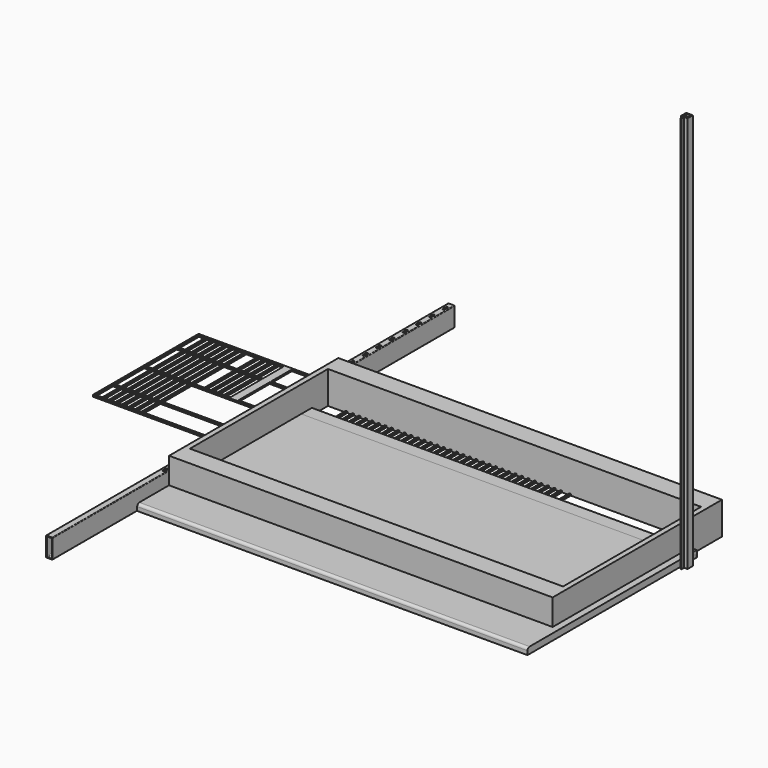
from build123d import *

# Parameters (mm, degrees)
F1_DEPTH  = 4.672
F2_DEPTH  = 6.35
F3_DEPTH  = 4
F4_W      = 25
F4_H      = 1930.4
F5_DEPTH  = 75
F7_DEPTH  = 2133.6
F8_R      = 2
F9_W      = 1473.2
F9_H      = 812.8
F9_W_2    = 1433.2
F9_H_2    = 662.8
F10_DEPTH = 125
F11_W     = 1521.46
F11_H     = 508
F11_W_2   = 26
F11_H_2   = 84
F11_W_3   = 19
F11_H_3   = 144
F11_W_4   = 27.46
F11_H_4   = 150
F11_H_5   = 100
F12_DEPTH = 6
F13_W     = 1524
F13_H     = 6.35
F13_H_2   = 44.45
F14_DEPTH = 25
F15_DEPTH = 12.7
F16_DEPTH = 12.7
F13_H_3   = 304.8
F17_DEPTH = 25
F18_R     = 10
F18_2_R   = 10
F19_DEPTH = 1524
F20_DEPTH = 1524


with BuildPart() as f1:
    # F0 (on Top) → F1 (new body)
    with BuildSketch(Plane.XY):
        with BuildLine():
            Line((211.6213, 8.013526), (-248.3787, 8.013526))
            Line((-248.3787, 8.013526), (-248.3787, 16.013526))
            ThreePointArc((-248.3787, 16.013526), (-248.964486, 17.427739), (-250.3787, 18.013526))
            Line((-250.3787, 18.013526), (-252.3787, 18.013526))
            ThreePointArc((-252.3787, 18.013526), (-253.792913, 17.427739), (-254.3787, 16.013526))
            Line((-254.3787, 16.013526), (-254.3787, 8.013526))
            Line((-254.3787, 8.013526), (-254.3787, -19.986474))
            ThreePointArc((-254.3787, -19.986474), (-253.792913, -21.400688), (-252.3787, -21.986474))
            Line((-252.3787, -21.986474), (-250.3787, -21.986474))
            ThreePointArc((-250.3787, -21.986474), (-248.964486, -21.400688), (-248.3787, -19.986474))
            Line((-248.3787, -19.986474), (-248.3787, -11.986474))
            Line((-248.3787, -11.986474), (211.6213, -69.711964))
            Line((211.6213, -69.711964), (211.6213, 8.013526))
        make_face()
        with BuildLine():
            Line((259.93453, -75.774801), (211.6213, -69.711964))
            Line((211.6213, -69.711964), (211.6213, -137.774662))
            Line((211.6213, -137.774662), (233.652189, -143.248732))
            ThreePointArc((233.652189, -143.248732), (236.643955, -143.801353), (239.680693, -143.986474))
            Line((239.680693, -143.986474), (258.6213, -143.986474))
            ThreePointArc((258.6213, -143.986474), (260.742621, -143.107795), (261.6213, -140.986474))
            Line((261.6213, -140.986474), (261.6213, -129.986474))
            Line((261.6213, -129.986474), (264.3213, -129.986474))
            Line((264.3213, -129.986474), (264.3213, -136.986474))
            ThreePointArc((264.3213, -136.986474), (265.19998, -139.107795), (267.3213, -139.986474))
            Line((267.3213, -139.986474), (271.3213, -139.986474))
            ThreePointArc((271.3213, -139.986474), (273.442621, -139.107795), (274.3213, -136.986474))
            Line((274.3213, -136.986474), (274.3213, -122.986474))
            ThreePointArc((274.3213, -122.986474), (273.442621, -120.865154), (271.3213, -119.986474))
            Line((271.3213, -119.986474), (261.6213, -119.986474))
            Line((261.6213, -119.986474), (261.6213, -74.286474))
            ThreePointArc((261.6213, -74.286474), (261.113733, -75.411231), (259.93453, -75.774801))
        make_face()
        with BuildLine():
            Line((260.1213, 8.013526), (211.6213, 8.013526))
            Line((211.6213, 8.013526), (211.6213, -69.711964))
            Line((211.6213, -69.711964), (259.93453, -75.774801))
            ThreePointArc((259.93453, -75.774801), (261.113733, -75.411231), (261.6213, -74.286474))
            Line((261.6213, -74.286474), (261.6213, -69.986474))
            Line((261.6213, -69.986474), (263.9213, -69.986474))
            Line((263.9213, -69.986474), (264.3213, -74.486474))
            ThreePointArc((264.3213, -74.486474), (264.76064, -75.547134), (265.8213, -75.986474))
            Line((265.8213, -75.986474), (272.8213, -75.986474))
            ThreePointArc((272.8213, -75.986474), (273.88196, -75.547134), (274.3213, -74.486474))
            Line((274.3213, -74.486474), (274.3213, -57.486474))
            ThreePointArc((274.3213, -57.486474), (273.88196, -56.425814), (272.8213, -55.986474))
            Line((272.8213, -55.986474), (265.8213, -55.986474))
            ThreePointArc((265.8213, -55.986474), (264.76064, -56.425814), (264.3213, -57.486474))
            Line((264.3213, -57.486474), (263.9213, -61.986474))
            Line((263.9213, -61.986474), (261.6213, -61.986474))
            Line((261.6213, -61.986474), (261.6213, -57.486474))
            ThreePointArc((261.6213, -57.486474), (261.18196, -56.425814), (260.1213, -55.986474))
            Line((260.1213, -55.986474), (258.6213, -55.986474))
            Line((258.6213, -55.986474), (258.6213, -50.986474))
            Line((258.6213, -50.986474), (261.6213, -50.986474))
            Line((261.6213, -50.986474), (271.3213, -50.986474))
            ThreePointArc((271.3213, -50.986474), (273.442621, -50.107795), (274.3213, -47.986474))
            Line((274.3213, -47.986474), (274.3213, -38.986474))
            ThreePointArc((274.3213, -38.986474), (273.442621, -36.865154), (271.3213, -35.986474))
            Line((271.3213, -35.986474), (261.6213, -35.986474))
            Line((261.6213, -35.986474), (258.6213, -35.986474))
            Line((258.6213, -35.986474), (258.6213, -31.986474))
            Line((258.6213, -31.986474), (261.6213, -31.986474))
            Line((261.6213, -31.986474), (271.3213, -31.986474))
            ThreePointArc((271.3213, -31.986474), (273.442621, -31.107795), (274.3213, -28.986474))
            Line((274.3213, -28.986474), (274.3213, -19.986474))
            ThreePointArc((274.3213, -19.986474), (273.442621, -17.865154), (271.3213, -16.986474))
            Line((271.3213, -16.986474), (261.6213, -16.986474))
            Line((261.6213, -16.986474), (258.6213, -16.986474))
            Line((258.6213, -16.986474), (258.6213, -11.986474))
            Line((258.6213, -11.986474), (260.1213, -11.986474))
            ThreePointArc((260.1213, -11.986474), (261.18196, -11.547134), (261.6213, -10.486474))
            Line((261.6213, -10.486474), (261.6213, -5.986474))
            Line((261.6213, -5.986474), (263.9213, -5.986474))
            Line((263.9213, -5.986474), (264.3213, -10.486474))
            ThreePointArc((264.3213, -10.486474), (264.76064, -11.547134), (265.8213, -11.986474))
            Line((265.8213, -11.986474), (272.8213, -11.986474))
            ThreePointArc((272.8213, -11.986474), (273.88196, -11.547134), (274.3213, -10.486474))
            Line((274.3213, -10.486474), (274.3213, 6.513526))
            ThreePointArc((274.3213, 6.513526), (273.88196, 7.574186), (272.8213, 8.013526))
            Line((272.8213, 8.013526), (265.8213, 8.013526))
            ThreePointArc((265.8213, 8.013526), (264.76064, 7.574186), (264.3213, 6.513526))
            Line((264.3213, 6.513526), (263.9213, 2.013526))
            Line((263.9213, 2.013526), (261.6213, 2.013526))
            Line((261.6213, 2.013526), (261.6213, 6.513526))
            ThreePointArc((261.6213, 6.513526), (261.18196, 7.574186), (260.1213, 8.013526))
        make_face()
        with BuildLine():
            Line((259.93453, -75.774801), (211.6213, -69.711964))
            Line((211.6213, -69.711964), (211.6213, -137.774662))
            Line((211.6213, -137.774662), (233.652189, -143.248732))
            ThreePointArc((233.652189, -143.248732), (236.643955, -143.801353), (239.680693, -143.986474))
            Line((239.680693, -143.986474), (258.6213, -143.986474))
            ThreePointArc((258.6213, -143.986474), (260.742621, -143.107795), (261.6213, -140.986474))
            Line((261.6213, -140.986474), (261.6213, -129.986474))
            Line((261.6213, -129.986474), (264.3213, -129.986474))
            Line((264.3213, -129.986474), (264.3213, -136.986474))
            ThreePointArc((264.3213, -136.986474), (265.19998, -139.107795), (267.3213, -139.986474))
            Line((267.3213, -139.986474), (271.3213, -139.986474))
            ThreePointArc((271.3213, -139.986474), (273.442621, -139.107795), (274.3213, -136.986474))
            Line((274.3213, -136.986474), (274.3213, -122.986474))
            ThreePointArc((274.3213, -122.986474), (273.442621, -120.865154), (271.3213, -119.986474))
            Line((271.3213, -119.986474), (261.6213, -119.986474))
            Line((261.6213, -119.986474), (261.6213, -74.286474))
            ThreePointArc((261.6213, -74.286474), (261.113733, -75.411231), (259.93453, -75.774801))
        make_face()
    extrude(amount=F1_DEPTH)


with BuildPart() as f2:
    # F0 (on Top) → F2 (new body)
    with BuildSketch(Plane.XY):
        with BuildLine():
            Line((259.93453, -75.774801), (211.6213, -69.711964))
            Line((211.6213, -69.711964), (211.6213, -137.774662))
            Line((211.6213, -137.774662), (233.652189, -143.248732))
            ThreePointArc((233.652189, -143.248732), (236.643955, -143.801353), (239.680693, -143.986474))
            Line((239.680693, -143.986474), (258.6213, -143.986474))
            ThreePointArc((258.6213, -143.986474), (260.742621, -143.107795), (261.6213, -140.986474))
            Line((261.6213, -140.986474), (261.6213, -129.986474))
            Line((261.6213, -129.986474), (264.3213, -129.986474))
            Line((264.3213, -129.986474), (264.3213, -136.986474))
            ThreePointArc((264.3213, -136.986474), (265.19998, -139.107795), (267.3213, -139.986474))
            Line((267.3213, -139.986474), (271.3213, -139.986474))
            ThreePointArc((271.3213, -139.986474), (273.442621, -139.107795), (274.3213, -136.986474))
            Line((274.3213, -136.986474), (274.3213, -122.986474))
            ThreePointArc((274.3213, -122.986474), (273.442621, -120.865154), (271.3213, -119.986474))
            Line((271.3213, -119.986474), (261.6213, -119.986474))
            Line((261.6213, -119.986474), (261.6213, -74.286474))
            ThreePointArc((261.6213, -74.286474), (261.113733, -75.411231), (259.93453, -75.774801))
        make_face()
        with BuildLine():
            Line((260.1213, 8.013526), (211.6213, 8.013526))
            Line((211.6213, 8.013526), (211.6213, -69.711964))
            Line((211.6213, -69.711964), (259.93453, -75.774801))
            ThreePointArc((259.93453, -75.774801), (261.113733, -75.411231), (261.6213, -74.286474))
            Line((261.6213, -74.286474), (261.6213, -69.986474))
            Line((261.6213, -69.986474), (263.9213, -69.986474))
            Line((263.9213, -69.986474), (264.3213, -74.486474))
            ThreePointArc((264.3213, -74.486474), (264.76064, -75.547134), (265.8213, -75.986474))
            Line((265.8213, -75.986474), (272.8213, -75.986474))
            ThreePointArc((272.8213, -75.986474), (273.88196, -75.547134), (274.3213, -74.486474))
            Line((274.3213, -74.486474), (274.3213, -57.486474))
            ThreePointArc((274.3213, -57.486474), (273.88196, -56.425814), (272.8213, -55.986474))
            Line((272.8213, -55.986474), (265.8213, -55.986474))
            ThreePointArc((265.8213, -55.986474), (264.76064, -56.425814), (264.3213, -57.486474))
            Line((264.3213, -57.486474), (263.9213, -61.986474))
            Line((263.9213, -61.986474), (261.6213, -61.986474))
            Line((261.6213, -61.986474), (261.6213, -57.486474))
            ThreePointArc((261.6213, -57.486474), (261.18196, -56.425814), (260.1213, -55.986474))
            Line((260.1213, -55.986474), (258.6213, -55.986474))
            Line((258.6213, -55.986474), (258.6213, -50.986474))
            Line((258.6213, -50.986474), (261.6213, -50.986474))
            Line((261.6213, -50.986474), (271.3213, -50.986474))
            ThreePointArc((271.3213, -50.986474), (273.442621, -50.107795), (274.3213, -47.986474))
            Line((274.3213, -47.986474), (274.3213, -38.986474))
            ThreePointArc((274.3213, -38.986474), (273.442621, -36.865154), (271.3213, -35.986474))
            Line((271.3213, -35.986474), (261.6213, -35.986474))
            Line((261.6213, -35.986474), (258.6213, -35.986474))
            Line((258.6213, -35.986474), (258.6213, -31.986474))
            Line((258.6213, -31.986474), (261.6213, -31.986474))
            Line((261.6213, -31.986474), (271.3213, -31.986474))
            ThreePointArc((271.3213, -31.986474), (273.442621, -31.107795), (274.3213, -28.986474))
            Line((274.3213, -28.986474), (274.3213, -19.986474))
            ThreePointArc((274.3213, -19.986474), (273.442621, -17.865154), (271.3213, -16.986474))
            Line((271.3213, -16.986474), (261.6213, -16.986474))
            Line((261.6213, -16.986474), (258.6213, -16.986474))
            Line((258.6213, -16.986474), (258.6213, -11.986474))
            Line((258.6213, -11.986474), (260.1213, -11.986474))
            ThreePointArc((260.1213, -11.986474), (261.18196, -11.547134), (261.6213, -10.486474))
            Line((261.6213, -10.486474), (261.6213, -5.986474))
            Line((261.6213, -5.986474), (263.9213, -5.986474))
            Line((263.9213, -5.986474), (264.3213, -10.486474))
            ThreePointArc((264.3213, -10.486474), (264.76064, -11.547134), (265.8213, -11.986474))
            Line((265.8213, -11.986474), (272.8213, -11.986474))
            ThreePointArc((272.8213, -11.986474), (273.88196, -11.547134), (274.3213, -10.486474))
            Line((274.3213, -10.486474), (274.3213, 6.513526))
            ThreePointArc((274.3213, 6.513526), (273.88196, 7.574186), (272.8213, 8.013526))
            Line((272.8213, 8.013526), (265.8213, 8.013526))
            ThreePointArc((265.8213, 8.013526), (264.76064, 7.574186), (264.3213, 6.513526))
            Line((264.3213, 6.513526), (263.9213, 2.013526))
            Line((263.9213, 2.013526), (261.6213, 2.013526))
            Line((261.6213, 2.013526), (261.6213, 6.513526))
            ThreePointArc((261.6213, 6.513526), (261.18196, 7.574186), (260.1213, 8.013526))
        make_face()
    extrude(amount=F2_DEPTH)


with BuildPart() as f3:
    # F0 (on Top) → F3 (new body)
    with BuildSketch(Plane.XY):
        with BuildLine():
            Line((211.6213, 8.013526), (-248.3787, 8.013526))
            Line((-248.3787, 8.013526), (-248.3787, 16.013526))
            ThreePointArc((-248.3787, 16.013526), (-248.964486, 17.427739), (-250.3787, 18.013526))
            Line((-250.3787, 18.013526), (-252.3787, 18.013526))
            ThreePointArc((-252.3787, 18.013526), (-253.792913, 17.427739), (-254.3787, 16.013526))
            Line((-254.3787, 16.013526), (-254.3787, 8.013526))
            Line((-254.3787, 8.013526), (-254.3787, -19.986474))
            ThreePointArc((-254.3787, -19.986474), (-253.792913, -21.400688), (-252.3787, -21.986474))
            Line((-252.3787, -21.986474), (-250.3787, -21.986474))
            ThreePointArc((-250.3787, -21.986474), (-248.964486, -21.400688), (-248.3787, -19.986474))
            Line((-248.3787, -19.986474), (-248.3787, -11.986474))
            Line((-248.3787, -11.986474), (211.6213, -69.711964))
            Line((211.6213, -69.711964), (211.6213, 8.013526))
        make_face()
        with BuildLine():
            Line((260.1213, 8.013526), (211.6213, 8.013526))
            Line((211.6213, 8.013526), (211.6213, -69.711964))
            Line((211.6213, -69.711964), (259.93453, -75.774801))
            ThreePointArc((259.93453, -75.774801), (261.113733, -75.411231), (261.6213, -74.286474))
            Line((261.6213, -74.286474), (261.6213, -69.986474))
            Line((261.6213, -69.986474), (263.9213, -69.986474))
            Line((263.9213, -69.986474), (264.3213, -74.486474))
            ThreePointArc((264.3213, -74.486474), (264.76064, -75.547134), (265.8213, -75.986474))
            Line((265.8213, -75.986474), (272.8213, -75.986474))
            ThreePointArc((272.8213, -75.986474), (273.88196, -75.547134), (274.3213, -74.486474))
            Line((274.3213, -74.486474), (274.3213, -57.486474))
            ThreePointArc((274.3213, -57.486474), (273.88196, -56.425814), (272.8213, -55.986474))
            Line((272.8213, -55.986474), (265.8213, -55.986474))
            ThreePointArc((265.8213, -55.986474), (264.76064, -56.425814), (264.3213, -57.486474))
            Line((264.3213, -57.486474), (263.9213, -61.986474))
            Line((263.9213, -61.986474), (261.6213, -61.986474))
            Line((261.6213, -61.986474), (261.6213, -57.486474))
            ThreePointArc((261.6213, -57.486474), (261.18196, -56.425814), (260.1213, -55.986474))
            Line((260.1213, -55.986474), (258.6213, -55.986474))
            Line((258.6213, -55.986474), (258.6213, -50.986474))
            Line((258.6213, -50.986474), (261.6213, -50.986474))
            Line((261.6213, -50.986474), (271.3213, -50.986474))
            ThreePointArc((271.3213, -50.986474), (273.442621, -50.107795), (274.3213, -47.986474))
            Line((274.3213, -47.986474), (274.3213, -38.986474))
            ThreePointArc((274.3213, -38.986474), (273.442621, -36.865154), (271.3213, -35.986474))
            Line((271.3213, -35.986474), (261.6213, -35.986474))
            Line((261.6213, -35.986474), (258.6213, -35.986474))
            Line((258.6213, -35.986474), (258.6213, -31.986474))
            Line((258.6213, -31.986474), (261.6213, -31.986474))
            Line((261.6213, -31.986474), (271.3213, -31.986474))
            ThreePointArc((271.3213, -31.986474), (273.442621, -31.107795), (274.3213, -28.986474))
            Line((274.3213, -28.986474), (274.3213, -19.986474))
            ThreePointArc((274.3213, -19.986474), (273.442621, -17.865154), (271.3213, -16.986474))
            Line((271.3213, -16.986474), (261.6213, -16.986474))
            Line((261.6213, -16.986474), (258.6213, -16.986474))
            Line((258.6213, -16.986474), (258.6213, -11.986474))
            Line((258.6213, -11.986474), (260.1213, -11.986474))
            ThreePointArc((260.1213, -11.986474), (261.18196, -11.547134), (261.6213, -10.486474))
            Line((261.6213, -10.486474), (261.6213, -5.986474))
            Line((261.6213, -5.986474), (263.9213, -5.986474))
            Line((263.9213, -5.986474), (264.3213, -10.486474))
            ThreePointArc((264.3213, -10.486474), (264.76064, -11.547134), (265.8213, -11.986474))
            Line((265.8213, -11.986474), (272.8213, -11.986474))
            ThreePointArc((272.8213, -11.986474), (273.88196, -11.547134), (274.3213, -10.486474))
            Line((274.3213, -10.486474), (274.3213, 6.513526))
            ThreePointArc((274.3213, 6.513526), (273.88196, 7.574186), (272.8213, 8.013526))
            Line((272.8213, 8.013526), (265.8213, 8.013526))
            ThreePointArc((265.8213, 8.013526), (264.76064, 7.574186), (264.3213, 6.513526))
            Line((264.3213, 6.513526), (263.9213, 2.013526))
            Line((263.9213, 2.013526), (261.6213, 2.013526))
            Line((261.6213, 2.013526), (261.6213, 6.513526))
            ThreePointArc((261.6213, 6.513526), (261.18196, 7.574186), (260.1213, 8.013526))
        make_face()
    extrude(amount=F3_DEPTH)


with BuildPart() as f5:
    # F4 (on Top) → F5 (new body)
    with BuildSketch(Plane.XY):
        with Locations((-749.5, 0)):
            Rectangle(F4_W, F4_H)
        with BuildLine():
            ThreePointArc((-752, -401.8), (-751.12132, -399.67868), (-749, -398.8))
            Line((-749, -398.8), (-748, -398.8))
            ThreePointArc((-748, -398.8), (-745.87868, -399.67868), (-745, -401.8))
            Line((-745, -401.8), (-745, -417.8))
            ThreePointArc((-745, -417.8), (-745.87868, -419.92132), (-748, -420.8))
            Line((-748, -420.8), (-749, -420.8))
            ThreePointArc((-749, -420.8), (-751.12132, -419.92132), (-752, -417.8))
            Line((-752, -417.8), (-752, -401.8))
        make_face(mode=Mode.SUBTRACT)
        with BuildLine():
            ThreePointArc((-752, -337.8), (-751.12132, -335.67868), (-749, -334.8))
            Line((-749, -334.8), (-748, -334.8))
            ThreePointArc((-748, -334.8), (-745.87868, -335.67868), (-745, -337.8))
            Line((-745, -337.8), (-745, -353.8))
            ThreePointArc((-745, -353.8), (-745.87868, -355.92132), (-748, -356.8))
            Line((-748, -356.8), (-749, -356.8))
            ThreePointArc((-749, -356.8), (-751.12132, -355.92132), (-752, -353.8))
            Line((-752, -353.8), (-752, -337.8))
        make_face(mode=Mode.SUBTRACT)
        with BuildLine():
            ThreePointArc((-752, -273.8), (-751.12132, -271.67868), (-749, -270.8))
            Line((-749, -270.8), (-748, -270.8))
            ThreePointArc((-748, -270.8), (-745.87868, -271.67868), (-745, -273.8))
            Line((-745, -273.8), (-745, -289.8))
            ThreePointArc((-745, -289.8), (-745.87868, -291.92132), (-748, -292.8))
            Line((-748, -292.8), (-749, -292.8))
            ThreePointArc((-749, -292.8), (-751.12132, -291.92132), (-752, -289.8))
            Line((-752, -289.8), (-752, -273.8))
        make_face(mode=Mode.SUBTRACT)
        with BuildLine():
            ThreePointArc((-752, -209.8), (-751.12132, -207.67868), (-749, -206.8))
            Line((-749, -206.8), (-748, -206.8))
            ThreePointArc((-748, -206.8), (-745.87868, -207.67868), (-745, -209.8))
            Line((-745, -209.8), (-745, -225.8))
            ThreePointArc((-745, -225.8), (-745.87868, -227.92132), (-748, -228.8))
            Line((-748, -228.8), (-749, -228.8))
            ThreePointArc((-749, -228.8), (-751.12132, -227.92132), (-752, -225.8))
            Line((-752, -225.8), (-752, -209.8))
        make_face(mode=Mode.SUBTRACT)
        with BuildLine():
            ThreePointArc((-752, -145.8), (-751.12132, -143.67868), (-749, -142.8))
            Line((-749, -142.8), (-748, -142.8))
            ThreePointArc((-748, -142.8), (-745.87868, -143.67868), (-745, -145.8))
            Line((-745, -145.8), (-745, -161.8))
            ThreePointArc((-745, -161.8), (-745.87868, -163.92132), (-748, -164.8))
            Line((-748, -164.8), (-749, -164.8))
            ThreePointArc((-749, -164.8), (-751.12132, -163.92132), (-752, -161.8))
            Line((-752, -161.8), (-752, -145.8))
        make_face(mode=Mode.SUBTRACT)
        with BuildLine():
            ThreePointArc((-752, -81.8), (-751.12132, -79.67868), (-749, -78.8))
            Line((-749, -78.8), (-748, -78.8))
            ThreePointArc((-748, -78.8), (-745.87868, -79.67868), (-745, -81.8))
            Line((-745, -81.8), (-745, -97.8))
            ThreePointArc((-745, -97.8), (-745.87868, -99.92132), (-748, -100.8))
            Line((-748, -100.8), (-749, -100.8))
            ThreePointArc((-749, -100.8), (-751.12132, -99.92132), (-752, -97.8))
            Line((-752, -97.8), (-752, -81.8))
        make_face(mode=Mode.SUBTRACT)
        with BuildLine():
            ThreePointArc((-752, -17.8), (-751.12132, -15.67868), (-749, -14.8))
            Line((-749, -14.8), (-748, -14.8))
            ThreePointArc((-748, -14.8), (-745.87868, -15.67868), (-745, -17.8))
            Line((-745, -17.8), (-745, -33.8))
            ThreePointArc((-745, -33.8), (-745.87868, -35.92132), (-748, -36.8))
            Line((-748, -36.8), (-749, -36.8))
            ThreePointArc((-749, -36.8), (-751.12132, -35.92132), (-752, -33.8))
            Line((-752, -33.8), (-752, -17.8))
        make_face(mode=Mode.SUBTRACT)
        with BuildLine():
            ThreePointArc((-752, 46.2), (-751.12132, 48.32132), (-749, 49.2))
            Line((-749, 49.2), (-748, 49.2))
            ThreePointArc((-748, 49.2), (-745.87868, 48.32132), (-745, 46.2))
            Line((-745, 46.2), (-745, 30.2))
            ThreePointArc((-745, 30.2), (-745.87868, 28.07868), (-748, 27.2))
            Line((-748, 27.2), (-749, 27.2))
            ThreePointArc((-749, 27.2), (-751.12132, 28.07868), (-752, 30.2))
            Line((-752, 30.2), (-752, 46.2))
        make_face(mode=Mode.SUBTRACT)
        with BuildLine():
            ThreePointArc((-752, 110.2), (-751.12132, 112.32132), (-749, 113.2))
            Line((-749, 113.2), (-748, 113.2))
            ThreePointArc((-748, 113.2), (-745.87868, 112.32132), (-745, 110.2))
            Line((-745, 110.2), (-745, 94.2))
            ThreePointArc((-745, 94.2), (-745.87868, 92.07868), (-748, 91.2))
            Line((-748, 91.2), (-749, 91.2))
            ThreePointArc((-749, 91.2), (-751.12132, 92.07868), (-752, 94.2))
            Line((-752, 94.2), (-752, 110.2))
        make_face(mode=Mode.SUBTRACT)
        with BuildLine():
            ThreePointArc((-752, 174.2), (-751.12132, 176.32132), (-749, 177.2))
            Line((-749, 177.2), (-748, 177.2))
            ThreePointArc((-748, 177.2), (-745.87868, 176.32132), (-745, 174.2))
            Line((-745, 174.2), (-745, 158.2))
            ThreePointArc((-745, 158.2), (-745.87868, 156.07868), (-748, 155.2))
            Line((-748, 155.2), (-749, 155.2))
            ThreePointArc((-749, 155.2), (-751.12132, 156.07868), (-752, 158.2))
            Line((-752, 158.2), (-752, 174.2))
        make_face(mode=Mode.SUBTRACT)
        with BuildLine():
            ThreePointArc((-752, 238.2), (-751.12132, 240.32132), (-749, 241.2))
            Line((-749, 241.2), (-748, 241.2))
            ThreePointArc((-748, 241.2), (-745.87868, 240.32132), (-745, 238.2))
            Line((-745, 238.2), (-745, 222.2))
            ThreePointArc((-745, 222.2), (-745.87868, 220.07868), (-748, 219.2))
            Line((-748, 219.2), (-749, 219.2))
            ThreePointArc((-749, 219.2), (-751.12132, 220.07868), (-752, 222.2))
            Line((-752, 222.2), (-752, 238.2))
        make_face(mode=Mode.SUBTRACT)
        with BuildLine():
            ThreePointArc((-752, 302.2), (-751.12132, 304.32132), (-749, 305.2))
            Line((-749, 305.2), (-748, 305.2))
            ThreePointArc((-748, 305.2), (-745.87868, 304.32132), (-745, 302.2))
            Line((-745, 302.2), (-745, 286.2))
            ThreePointArc((-745, 286.2), (-745.87868, 284.07868), (-748, 283.2))
            Line((-748, 283.2), (-749, 283.2))
            ThreePointArc((-749, 283.2), (-751.12132, 284.07868), (-752, 286.2))
            Line((-752, 286.2), (-752, 302.2))
        make_face(mode=Mode.SUBTRACT)
        with BuildLine():
            ThreePointArc((-752, 366.2), (-751.12132, 368.32132), (-749, 369.2))
            Line((-749, 369.2), (-748, 369.2))
            ThreePointArc((-748, 369.2), (-745.87868, 368.32132), (-745, 366.2))
            Line((-745, 366.2), (-745, 350.2))
            ThreePointArc((-745, 350.2), (-745.87868, 348.07868), (-748, 347.2))
            Line((-748, 347.2), (-749, 347.2))
            ThreePointArc((-749, 347.2), (-751.12132, 348.07868), (-752, 350.2))
            Line((-752, 350.2), (-752, 366.2))
        make_face(mode=Mode.SUBTRACT)
        with BuildLine():
            ThreePointArc((-752, 430.2), (-751.12132, 432.32132), (-749, 433.2))
            Line((-749, 433.2), (-748, 433.2))
            ThreePointArc((-748, 433.2), (-745.87868, 432.32132), (-745, 430.2))
            Line((-745, 430.2), (-745, 414.2))
            ThreePointArc((-745, 414.2), (-745.87868, 412.07868), (-748, 411.2))
            Line((-748, 411.2), (-749, 411.2))
            ThreePointArc((-749, 411.2), (-751.12132, 412.07868), (-752, 414.2))
            Line((-752, 414.2), (-752, 430.2))
        make_face(mode=Mode.SUBTRACT)
        with BuildLine():
            ThreePointArc((-752, 494.2), (-751.12132, 496.32132), (-749, 497.2))
            Line((-749, 497.2), (-748, 497.2))
            ThreePointArc((-748, 497.2), (-745.87868, 496.32132), (-745, 494.2))
            Line((-745, 494.2), (-745, 478.2))
            ThreePointArc((-745, 478.2), (-745.87868, 476.07868), (-748, 475.2))
            Line((-748, 475.2), (-749, 475.2))
            ThreePointArc((-749, 475.2), (-751.12132, 476.07868), (-752, 478.2))
            Line((-752, 478.2), (-752, 494.2))
        make_face(mode=Mode.SUBTRACT)
        with BuildLine():
            ThreePointArc((-752, 558.2), (-751.12132, 560.32132), (-749, 561.2))
            Line((-749, 561.2), (-748, 561.2))
            ThreePointArc((-748, 561.2), (-745.87868, 560.32132), (-745, 558.2))
            Line((-745, 558.2), (-745, 542.2))
            ThreePointArc((-745, 542.2), (-745.87868, 540.07868), (-748, 539.2))
            Line((-748, 539.2), (-749, 539.2))
            ThreePointArc((-749, 539.2), (-751.12132, 540.07868), (-752, 542.2))
            Line((-752, 542.2), (-752, 558.2))
        make_face(mode=Mode.SUBTRACT)
        with BuildLine():
            ThreePointArc((-752, 622.2), (-751.12132, 624.32132), (-749, 625.2))
            Line((-749, 625.2), (-748, 625.2))
            ThreePointArc((-748, 625.2), (-745.87868, 624.32132), (-745, 622.2))
            Line((-745, 622.2), (-745, 606.2))
            ThreePointArc((-745, 606.2), (-745.87868, 604.07868), (-748, 603.2))
            Line((-748, 603.2), (-749, 603.2))
            ThreePointArc((-749, 603.2), (-751.12132, 604.07868), (-752, 606.2))
            Line((-752, 606.2), (-752, 622.2))
        make_face(mode=Mode.SUBTRACT)
        with BuildLine():
            ThreePointArc((-752, 686.2), (-751.12132, 688.32132), (-749, 689.2))
            Line((-749, 689.2), (-748, 689.2))
            ThreePointArc((-748, 689.2), (-745.87868, 688.32132), (-745, 686.2))
            Line((-745, 686.2), (-745, 670.2))
            ThreePointArc((-745, 670.2), (-745.87868, 668.07868), (-748, 667.2))
            Line((-748, 667.2), (-749, 667.2))
            ThreePointArc((-749, 667.2), (-751.12132, 668.07868), (-752, 670.2))
            Line((-752, 670.2), (-752, 686.2))
        make_face(mode=Mode.SUBTRACT)
        with BuildLine():
            ThreePointArc((-752, 750.2), (-751.12132, 752.32132), (-749, 753.2))
            Line((-749, 753.2), (-748, 753.2))
            ThreePointArc((-748, 753.2), (-745.87868, 752.32132), (-745, 750.2))
            Line((-745, 750.2), (-745, 734.2))
            ThreePointArc((-745, 734.2), (-745.87868, 732.07868), (-748, 731.2))
            Line((-748, 731.2), (-749, 731.2))
            ThreePointArc((-749, 731.2), (-751.12132, 732.07868), (-752, 734.2))
            Line((-752, 734.2), (-752, 750.2))
        make_face(mode=Mode.SUBTRACT)
        with BuildLine():
            ThreePointArc((-752, 814.2), (-751.12132, 816.32132), (-749, 817.2))
            Line((-749, 817.2), (-748, 817.2))
            ThreePointArc((-748, 817.2), (-745.87868, 816.32132), (-745, 814.2))
            Line((-745, 814.2), (-745, 798.2))
            ThreePointArc((-745, 798.2), (-745.87868, 796.07868), (-748, 795.2))
            Line((-748, 795.2), (-749, 795.2))
            ThreePointArc((-749, 795.2), (-751.12132, 796.07868), (-752, 798.2))
            Line((-752, 798.2), (-752, 814.2))
        make_face(mode=Mode.SUBTRACT)
        with BuildLine():
            ThreePointArc((-752, 878.2), (-751.12132, 880.32132), (-749, 881.2))
            Line((-749, 881.2), (-748, 881.2))
            ThreePointArc((-748, 881.2), (-745.87868, 880.32132), (-745, 878.2))
            Line((-745, 878.2), (-745, 862.2))
            ThreePointArc((-745, 862.2), (-745.87868, 860.07868), (-748, 859.2))
            Line((-748, 859.2), (-749, 859.2))
            ThreePointArc((-749, 859.2), (-751.12132, 860.07868), (-752, 862.2))
            Line((-752, 862.2), (-752, 878.2))
        make_face(mode=Mode.SUBTRACT)
        with BuildLine():
            ThreePointArc((-752, 942.2), (-751.12132, 944.32132), (-749, 945.2))
            Line((-749, 945.2), (-748, 945.2))
            ThreePointArc((-748, 945.2), (-745.87868, 944.32132), (-745, 942.2))
            Line((-745, 942.2), (-745, 926.2))
            ThreePointArc((-745, 926.2), (-745.87868, 924.07868), (-748, 923.2))
            Line((-748, 923.2), (-749, 923.2))
            ThreePointArc((-749, 923.2), (-751.12132, 924.07868), (-752, 926.2))
            Line((-752, 926.2), (-752, 942.2))
        make_face(mode=Mode.SUBTRACT)
    extrude(amount=F5_DEPTH)

    # F6 (on face) → F7 (cut)
    with BuildSketch(Plane(origin=(0, 965.2, 0), x_dir=(-1, 0, 0), z_dir=(0, 1, 0))):
        with BuildLine():
            Line((759, 6), (759, 69))
            ThreePointArc((759, 69), (758.12132, 71.12132), (756, 72))
            Line((756, 72), (743, 72))
            ThreePointArc((743, 72), (740.87868, 71.12132), (740, 69))
            Line((740, 69), (740, 6))
            ThreePointArc((740, 6), (740.87868, 3.87868), (743, 3))
            Line((743, 3), (756, 3))
            ThreePointArc((756, 3), (758.12132, 3.87868), (759, 6))
        make_face()
    extrude(amount=-F7_DEPTH, mode=Mode.SUBTRACT)

    # F8
    f8_edges = [f5.edges().sort_by_distance(p)[0] for p in [
        (-762, 0, 75),
        (-737, 0, 75),
        (-737, 0, 0),
        (-762, 0, 0),
    ]]
    fillet(f8_edges, radius=F8_R)


with BuildPart() as f10:
    # F9 (on Top) → F10 (new body)
    with BuildSketch(Plane.XY):
        Rectangle(F9_W, F9_H)
        Rectangle(F9_W_2, F9_H_2, mode=Mode.SUBTRACT)
    extrude(amount=F10_DEPTH)


with BuildPart() as f12:
    # F11 (on Top) → F12 (new body)
    with BuildSketch(Plane.XY):
        with Locations((-544.379638, 191.800288)):
            Rectangle(F11_W, F11_H)
        with Locations((-1286.109638, -14.199712)):
            Rectangle(F11_W_2, F11_H_2, mode=Mode.SUBTRACT)
        with Locations((-1257.609638, -14.199712)):
            Rectangle(F11_W_3, F11_H_2, mode=Mode.SUBTRACT)
        with Locations((-1232.609638, -14.199712)):
            Rectangle(F11_W_3, F11_H_2, mode=Mode.SUBTRACT)
        with Locations((-1207.609638, -14.199712)):
            Rectangle(F11_W_3, F11_H_2, mode=Mode.SUBTRACT)
        with Locations((-1182.609638, -14.199712)):
            Rectangle(F11_W_3, F11_H_2, mode=Mode.SUBTRACT)
        with Locations((-1157.609638, -14.199712)):
            Rectangle(F11_W_3, F11_H_2, mode=Mode.SUBTRACT)
        with Locations((-1132.609638, -14.199712)):
            Rectangle(F11_W_3, F11_H_2, mode=Mode.SUBTRACT)
        Polygon((-1098.109638, -56.199712), (-1117.109638, -56.199712), (-1117.109638, 27.800288), (-1098.109638, 27.800288), (-1092.109638, 27.800288), (-1073.109638, 27.800288), (-1067.109638, 27.800288), (-1048.109638, 27.800288), (-1042.109638, 27.800288), (-1023.109638, 27.800288), (-1017.109638, 27.800288), (-998.109638, 27.800288), (-992.109638, 27.800288), (-973.109638, 27.800288), (-967.109638, 27.800288), (-948.109638, 27.800288), (-942.109638, 27.800288), (-923.109638, 27.800288), (-917.109638, 27.800288), (-898.109638, 27.800288), (-892.109638, 27.800288), (-873.109638, 27.800288), (-867.109638, 27.800288), (-848.109638, 27.800288), (-842.109638, 27.800288), (-823.109638, 27.800288), (-817.109638, 27.800288), (-798.109638, 27.800288), (-792.109638, 27.800288), (-773.109638, 27.800288), (-767.109638, 27.800288), (-748.109638, 27.800288), (-742.109638, 27.800288), (-723.109638, 27.800288), (-717.109638, 27.800288), (-698.109638, 27.800288), (-692.109638, 27.800288), (-673.109638, 27.800288), (-667.109638, 27.800288), (-648.109638, 27.800288), (-642.109638, 27.800288), (-623.109638, 27.800288), (-617.109638, 27.800288), (-598.109638, 27.800288), (-592.109638, 27.800288), (-573.109638, 27.800288), (-567.109638, 27.800288), (-548.109638, 27.800288), (-542.109638, 27.800288), (-523.109638, 27.800288), (-523.109638, -56.199712), (-542.109638, -56.199712), (-548.109638, -56.199712), (-567.109638, -56.199712), (-573.109638, -56.199712), (-592.109638, -56.199712), (-598.109638, -56.199712), (-617.109638, -56.199712), (-623.109638, -56.199712), (-642.109638, -56.199712), (-648.109638, -56.199712), (-667.109638, -56.199712), (-673.109638, -56.199712), (-692.109638, -56.199712), (-698.109638, -56.199712), (-717.109638, -56.199712), (-723.109638, -56.199712), (-742.109638, -56.199712), (-748.109638, -56.199712), (-767.109638, -56.199712), (-773.109638, -56.199712), (-792.109638, -56.199712), (-798.109638, -56.199712), (-817.109638, -56.199712), (-823.109638, -56.199712), (-842.109638, -56.199712), (-848.109638, -56.199712), (-867.109638, -56.199712), (-873.109638, -56.199712), (-892.109638, -56.199712), (-898.109638, -56.199712), (-917.109638, -56.199712), (-923.109638, -56.199712), (-942.109638, -56.199712), (-948.109638, -56.199712), (-967.109638, -56.199712), (-973.109638, -56.199712), (-992.109638, -56.199712), (-998.109638, -56.199712), (-1017.109638, -56.199712), (-1023.109638, -56.199712), (-1042.109638, -56.199712), (-1048.109638, -56.199712), (-1067.109638, -56.199712), (-1073.109638, -56.199712), (-1092.109638, -56.199712), align=None, mode=Mode.SUBTRACT)
        with Locations((-1286.109638, 105.800288)):
            Rectangle(F11_W_2, F11_H_3, mode=Mode.SUBTRACT)
        with Locations((-1257.609638, 105.800288)):
            Rectangle(F11_W_3, F11_H_3, mode=Mode.SUBTRACT)
        with Locations((-1232.609638, 105.800288)):
            Rectangle(F11_W_3, F11_H_3, mode=Mode.SUBTRACT)
        with Locations((-1207.609638, 105.800288)):
            Rectangle(F11_W_3, F11_H_3, mode=Mode.SUBTRACT)
        with Locations((-1182.609638, 105.800288)):
            Rectangle(F11_W_3, F11_H_3, mode=Mode.SUBTRACT)
        with Locations((-1157.609638, 105.800288)):
            Rectangle(F11_W_3, F11_H_3, mode=Mode.SUBTRACT)
        with Locations((-1132.609638, 105.800288)):
            Rectangle(F11_W_3, F11_H_3, mode=Mode.SUBTRACT)
        Polygon((-542.109638, 177.800288), (-523.109638, 177.800288), (-523.109638, 33.800288), (-542.109638, 33.800288), (-548.109638, 33.800288), (-567.109638, 33.800288), (-573.109638, 33.800288), (-592.109638, 33.800288), (-598.109638, 33.800288), (-617.109638, 33.800288), (-623.109638, 33.800288), (-642.109638, 33.800288), (-648.109638, 33.800288), (-667.109638, 33.800288), (-673.109638, 33.800288), (-692.109638, 33.800288), (-698.109638, 33.800288), (-717.109638, 33.800288), (-723.109638, 33.800288), (-742.109638, 33.800288), (-748.109638, 33.800288), (-767.109638, 33.800288), (-773.109638, 33.800288), (-792.109638, 33.800288), (-798.109638, 33.800288), (-817.109638, 33.800288), (-823.109638, 33.800288), (-842.109638, 33.800288), (-848.109638, 33.800288), (-867.109638, 33.800288), (-873.109638, 33.800288), (-892.109638, 33.800288), (-898.109638, 33.800288), (-917.109638, 33.800288), (-923.109638, 33.800288), (-942.109638, 33.800288), (-948.109638, 33.800288), (-967.109638, 33.800288), (-973.109638, 33.800288), (-992.109638, 33.800288), (-998.109638, 33.800288), (-1017.109638, 33.800288), (-1023.109638, 33.800288), (-1042.109638, 33.800288), (-1048.109638, 33.800288), (-1067.109638, 33.800288), (-1073.109638, 33.800288), (-1092.109638, 33.800288), (-1098.109638, 33.800288), (-1117.109638, 33.800288), (-1117.109638, 177.800288), (-1098.109638, 177.800288), (-1092.109638, 177.800288), (-1073.109638, 177.800288), (-1067.109638, 177.800288), (-1048.109638, 177.800288), (-1042.109638, 177.800288), (-1023.109638, 177.800288), (-1017.109638, 177.800288), (-998.109638, 177.800288), (-992.109638, 177.800288), (-973.109638, 177.800288), (-967.109638, 177.800288), (-948.109638, 177.800288), (-942.109638, 177.800288), (-923.109638, 177.800288), (-917.109638, 177.800288), (-898.109638, 177.800288), (-892.109638, 177.800288), (-873.109638, 177.800288), (-867.109638, 177.800288), (-848.109638, 177.800288), (-842.109638, 177.800288), (-823.109638, 177.800288), (-817.109638, 177.800288), (-798.109638, 177.800288), (-792.109638, 177.800288), (-773.109638, 177.800288), (-767.109638, 177.800288), (-748.109638, 177.800288), (-742.109638, 177.800288), (-723.109638, 177.800288), (-717.109638, 177.800288), (-698.109638, 177.800288), (-692.109638, 177.800288), (-673.109638, 177.800288), (-667.109638, 177.800288), (-648.109638, 177.800288), (-642.109638, 177.800288), (-623.109638, 177.800288), (-617.109638, 177.800288), (-598.109638, 177.800288), (-592.109638, 177.800288), (-573.109638, 177.800288), (-567.109638, 177.800288), (-548.109638, 177.800288), align=None, mode=Mode.SUBTRACT)
        with Locations((-507.609638, -14.199712)):
            Rectangle(F11_W_3, F11_H_2, mode=Mode.SUBTRACT)
        with Locations((-482.609638, -14.199712)):
            Rectangle(F11_W_3, F11_H_2, mode=Mode.SUBTRACT)
        with Locations((-457.609638, -14.199712)):
            Rectangle(F11_W_3, F11_H_2, mode=Mode.SUBTRACT)
        with Locations((-432.609638, -14.199712)):
            Rectangle(F11_W_3, F11_H_2, mode=Mode.SUBTRACT)
        with Locations((-407.609638, -14.199712)):
            Rectangle(F11_W_3, F11_H_2, mode=Mode.SUBTRACT)
        with Locations((-382.609638, -14.199712)):
            Rectangle(F11_W_3, F11_H_2, mode=Mode.SUBTRACT)
        with Locations((-357.609638, -14.199712)):
            Rectangle(F11_W_3, F11_H_2, mode=Mode.SUBTRACT)
        with Locations((-332.609638, -14.199712)):
            Rectangle(F11_W_3, F11_H_2, mode=Mode.SUBTRACT)
        with Locations((-307.609638, -14.199712)):
            Rectangle(F11_W_3, F11_H_2, mode=Mode.SUBTRACT)
        with Locations((-282.609638, -14.199712)):
            Rectangle(F11_W_3, F11_H_2, mode=Mode.SUBTRACT)
        with Locations((-257.609638, -14.199712)):
            Rectangle(F11_W_3, F11_H_2, mode=Mode.SUBTRACT)
        with Locations((-232.609638, -14.199712)):
            Rectangle(F11_W_3, F11_H_2, mode=Mode.SUBTRACT)
        with Locations((-207.609638, -14.199712)):
            Rectangle(F11_W_3, F11_H_2, mode=Mode.SUBTRACT)
        with Locations((-182.609638, -14.199712)):
            Rectangle(F11_W_3, F11_H_2, mode=Mode.SUBTRACT)
        with Locations((-157.609638, -14.199712)):
            Rectangle(F11_W_3, F11_H_2, mode=Mode.SUBTRACT)
        with Locations((-132.609638, -14.199712)):
            Rectangle(F11_W_3, F11_H_2, mode=Mode.SUBTRACT)
        with Locations((-107.609638, -14.199712)):
            Rectangle(F11_W_3, F11_H_2, mode=Mode.SUBTRACT)
        with Locations((-82.609638, -14.199712)):
            Rectangle(F11_W_3, F11_H_2, mode=Mode.SUBTRACT)
        with Locations((-57.609638, -14.199712)):
            Rectangle(F11_W_3, F11_H_2, mode=Mode.SUBTRACT)
        with Locations((-32.609638, -14.199712)):
            Rectangle(F11_W_3, F11_H_2, mode=Mode.SUBTRACT)
        with Locations((-7.609638, -14.199712)):
            Rectangle(F11_W_3, F11_H_2, mode=Mode.SUBTRACT)
        with Locations((17.390362, -14.199712)):
            Rectangle(F11_W_3, F11_H_2, mode=Mode.SUBTRACT)
        with Locations((42.390362, -14.199712)):
            Rectangle(F11_W_3, F11_H_2, mode=Mode.SUBTRACT)
        with Locations((67.390362, -14.199712)):
            Rectangle(F11_W_3, F11_H_2, mode=Mode.SUBTRACT)
        with Locations((92.390362, -14.199712)):
            Rectangle(F11_W_3, F11_H_2, mode=Mode.SUBTRACT)
        with Locations((117.390362, -14.199712)):
            Rectangle(F11_W_3, F11_H_2, mode=Mode.SUBTRACT)
        with Locations((142.390362, -14.199712)):
            Rectangle(F11_W_3, F11_H_2, mode=Mode.SUBTRACT)
        with Locations((167.390362, -14.199712)):
            Rectangle(F11_W_3, F11_H_2, mode=Mode.SUBTRACT)
        with Locations((196.620362, -14.199712)):
            Rectangle(F11_W_4, F11_H_2, mode=Mode.SUBTRACT)
        with Locations((-507.609638, 105.800288)):
            Rectangle(F11_W_3, F11_H_3, mode=Mode.SUBTRACT)
        with Locations((-482.609638, 105.800288)):
            Rectangle(F11_W_3, F11_H_3, mode=Mode.SUBTRACT)
        with Locations((-457.609638, 105.800288)):
            Rectangle(F11_W_3, F11_H_3, mode=Mode.SUBTRACT)
        with Locations((-432.609638, 105.800288)):
            Rectangle(F11_W_3, F11_H_3, mode=Mode.SUBTRACT)
        with Locations((-407.609638, 105.800288)):
            Rectangle(F11_W_3, F11_H_3, mode=Mode.SUBTRACT)
        with Locations((-382.609638, 105.800288)):
            Rectangle(F11_W_3, F11_H_3, mode=Mode.SUBTRACT)
        with Locations((-357.609638, 105.800288)):
            Rectangle(F11_W_3, F11_H_3, mode=Mode.SUBTRACT)
        with Locations((-332.609638, 105.800288)):
            Rectangle(F11_W_3, F11_H_3, mode=Mode.SUBTRACT)
        with Locations((-307.609638, 105.800288)):
            Rectangle(F11_W_3, F11_H_3, mode=Mode.SUBTRACT)
        with Locations((-282.609638, 105.800288)):
            Rectangle(F11_W_3, F11_H_3, mode=Mode.SUBTRACT)
        with Locations((-257.609638, 105.800288)):
            Rectangle(F11_W_3, F11_H_3, mode=Mode.SUBTRACT)
        with Locations((-232.609638, 105.800288)):
            Rectangle(F11_W_3, F11_H_3, mode=Mode.SUBTRACT)
        with Locations((-207.609638, 105.800288)):
            Rectangle(F11_W_3, F11_H_3, mode=Mode.SUBTRACT)
        with Locations((-182.609638, 105.800288)):
            Rectangle(F11_W_3, F11_H_3, mode=Mode.SUBTRACT)
        with Locations((-157.609638, 105.800288)):
            Rectangle(F11_W_3, F11_H_3, mode=Mode.SUBTRACT)
        with Locations((-132.609638, 105.800288)):
            Rectangle(F11_W_3, F11_H_3, mode=Mode.SUBTRACT)
        with Locations((-107.609638, 105.800288)):
            Rectangle(F11_W_3, F11_H_3, mode=Mode.SUBTRACT)
        with Locations((-82.609638, 105.800288)):
            Rectangle(F11_W_3, F11_H_3, mode=Mode.SUBTRACT)
        with Locations((-57.609638, 105.800288)):
            Rectangle(F11_W_3, F11_H_3, mode=Mode.SUBTRACT)
        with Locations((-32.609638, 105.800288)):
            Rectangle(F11_W_3, F11_H_3, mode=Mode.SUBTRACT)
        with Locations((-7.609638, 105.800288)):
            Rectangle(F11_W_3, F11_H_3, mode=Mode.SUBTRACT)
        with Locations((17.390362, 105.800288)):
            Rectangle(F11_W_3, F11_H_3, mode=Mode.SUBTRACT)
        with Locations((42.390362, 105.800288)):
            Rectangle(F11_W_3, F11_H_3, mode=Mode.SUBTRACT)
        with Locations((67.390362, 105.800288)):
            Rectangle(F11_W_3, F11_H_3, mode=Mode.SUBTRACT)
        with Locations((92.390362, 105.800288)):
            Rectangle(F11_W_3, F11_H_3, mode=Mode.SUBTRACT)
        with Locations((117.390362, 105.800288)):
            Rectangle(F11_W_3, F11_H_3, mode=Mode.SUBTRACT)
        with Locations((142.390362, 105.800288)):
            Rectangle(F11_W_3, F11_H_3, mode=Mode.SUBTRACT)
        with Locations((167.390362, 105.800288)):
            Rectangle(F11_W_3, F11_H_3, mode=Mode.SUBTRACT)
        with Locations((196.620362, 105.800288)):
            Rectangle(F11_W_4, F11_H_3, mode=Mode.SUBTRACT)
        with Locations((-1286.109638, 258.800288)):
            Rectangle(F11_W_2, F11_H_4, mode=Mode.SUBTRACT)
        with Locations((-1257.609638, 258.800288)):
            Rectangle(F11_W_3, F11_H_4, mode=Mode.SUBTRACT)
        with Locations((-1232.609638, 258.800288)):
            Rectangle(F11_W_3, F11_H_4, mode=Mode.SUBTRACT)
        with Locations((-1207.609638, 258.800288)):
            Rectangle(F11_W_3, F11_H_4, mode=Mode.SUBTRACT)
        with Locations((-1182.609638, 258.800288)):
            Rectangle(F11_W_3, F11_H_4, mode=Mode.SUBTRACT)
        with Locations((-1157.609638, 258.800288)):
            Rectangle(F11_W_3, F11_H_4, mode=Mode.SUBTRACT)
        with Locations((-1132.609638, 258.800288)):
            Rectangle(F11_W_3, F11_H_4, mode=Mode.SUBTRACT)
        Polygon((-1098.109638, 183.800288), (-1117.109638, 183.800288), (-1117.109638, 333.800288), (-1098.109638, 333.800288), (-1092.109638, 333.800288), (-1073.109638, 333.800288), (-1073.109638, 183.800288), (-1092.109638, 183.800288), align=None, mode=Mode.SUBTRACT)
        with Locations((-1057.609638, 258.800288)):
            Rectangle(F11_W_3, F11_H_4, mode=Mode.SUBTRACT)
        with Locations((-1032.609638, 258.800288)):
            Rectangle(F11_W_3, F11_H_4, mode=Mode.SUBTRACT)
        with Locations((-1007.609638, 258.800288)):
            Rectangle(F11_W_3, F11_H_4, mode=Mode.SUBTRACT)
        with Locations((-982.609638, 258.800288)):
            Rectangle(F11_W_3, F11_H_4, mode=Mode.SUBTRACT)
        Polygon((-923.109638, 183.800288), (-942.109638, 183.800288), (-942.109638, 333.800288), (-923.109638, 333.800288), (-917.109638, 333.800288), (-898.109638, 333.800288), (-892.109638, 333.800288), (-873.109638, 333.800288), (-867.109638, 333.800288), (-848.109638, 333.800288), (-842.109638, 333.800288), (-823.109638, 333.800288), (-817.109638, 333.800288), (-798.109638, 333.800288), (-792.109638, 333.800288), (-773.109638, 333.800288), (-767.109638, 333.800288), (-748.109638, 333.800288), (-742.109638, 333.800288), (-723.109638, 333.800288), (-717.109638, 333.800288), (-698.109638, 333.800288), (-692.109638, 333.800288), (-673.109638, 333.800288), (-667.109638, 333.800288), (-648.109638, 333.800288), (-648.109638, 183.800288), (-667.109638, 183.800288), (-673.109638, 183.800288), (-692.109638, 183.800288), (-698.109638, 183.800288), (-717.109638, 183.800288), (-723.109638, 183.800288), (-742.109638, 183.800288), (-748.109638, 183.800288), (-767.109638, 183.800288), (-773.109638, 183.800288), (-792.109638, 183.800288), (-798.109638, 183.800288), (-817.109638, 183.800288), (-823.109638, 183.800288), (-842.109638, 183.800288), (-848.109638, 183.800288), (-867.109638, 183.800288), (-873.109638, 183.800288), (-892.109638, 183.800288), (-898.109638, 183.800288), (-917.109638, 183.800288), align=None, mode=Mode.SUBTRACT)
        with Locations((-632.609638, 258.800288)):
            Rectangle(F11_W_3, F11_H_4, mode=Mode.SUBTRACT)
        with Locations((-607.609638, 258.800288)):
            Rectangle(F11_W_3, F11_H_4, mode=Mode.SUBTRACT)
        with Locations((-582.609638, 258.800288)):
            Rectangle(F11_W_3, F11_H_4, mode=Mode.SUBTRACT)
        with Locations((-557.609638, 258.800288)):
            Rectangle(F11_W_3, F11_H_4, mode=Mode.SUBTRACT)
        with Locations((-1286.109638, 389.800288)):
            Rectangle(F11_W_2, F11_H_5, mode=Mode.SUBTRACT)
        with Locations((-1257.609638, 389.800288)):
            Rectangle(F11_W_3, F11_H_5, mode=Mode.SUBTRACT)
        with Locations((-1232.609638, 389.800288)):
            Rectangle(F11_W_3, F11_H_5, mode=Mode.SUBTRACT)
        with Locations((-1207.609638, 389.800288)):
            Rectangle(F11_W_3, F11_H_5, mode=Mode.SUBTRACT)
        with Locations((-1182.609638, 389.800288)):
            Rectangle(F11_W_3, F11_H_5, mode=Mode.SUBTRACT)
        with Locations((-1157.609638, 389.800288)):
            Rectangle(F11_W_3, F11_H_5, mode=Mode.SUBTRACT)
        with Locations((-1132.609638, 389.800288)):
            Rectangle(F11_W_3, F11_H_5, mode=Mode.SUBTRACT)
        Polygon((-1092.109638, 439.800288), (-1073.109638, 439.800288), (-1073.109638, 339.800288), (-1092.109638, 339.800288), (-1098.109638, 339.800288), (-1117.109638, 339.800288), (-1117.109638, 439.800288), (-1098.109638, 439.800288), align=None, mode=Mode.SUBTRACT)
        with Locations((-1057.609638, 389.800288)):
            Rectangle(F11_W_3, F11_H_5, mode=Mode.SUBTRACT)
        with Locations((-1032.609638, 389.800288)):
            Rectangle(F11_W_3, F11_H_5, mode=Mode.SUBTRACT)
        with Locations((-1007.609638, 389.800288)):
            Rectangle(F11_W_3, F11_H_5, mode=Mode.SUBTRACT)
        with Locations((-982.609638, 389.800288)):
            Rectangle(F11_W_3, F11_H_5, mode=Mode.SUBTRACT)
        Polygon((-667.109638, 439.800288), (-648.109638, 439.800288), (-648.109638, 339.800288), (-667.109638, 339.800288), (-673.109638, 339.800288), (-692.109638, 339.800288), (-698.109638, 339.800288), (-717.109638, 339.800288), (-723.109638, 339.800288), (-742.109638, 339.800288), (-748.109638, 339.800288), (-767.109638, 339.800288), (-773.109638, 339.800288), (-792.109638, 339.800288), (-798.109638, 339.800288), (-817.109638, 339.800288), (-823.109638, 339.800288), (-842.109638, 339.800288), (-848.109638, 339.800288), (-867.109638, 339.800288), (-873.109638, 339.800288), (-892.109638, 339.800288), (-898.109638, 339.800288), (-917.109638, 339.800288), (-923.109638, 339.800288), (-942.109638, 339.800288), (-942.109638, 439.800288), (-923.109638, 439.800288), (-917.109638, 439.800288), (-898.109638, 439.800288), (-892.109638, 439.800288), (-873.109638, 439.800288), (-867.109638, 439.800288), (-848.109638, 439.800288), (-842.109638, 439.800288), (-823.109638, 439.800288), (-817.109638, 439.800288), (-798.109638, 439.800288), (-792.109638, 439.800288), (-773.109638, 439.800288), (-767.109638, 439.800288), (-748.109638, 439.800288), (-742.109638, 439.800288), (-723.109638, 439.800288), (-717.109638, 439.800288), (-698.109638, 439.800288), (-692.109638, 439.800288), (-673.109638, 439.800288), align=None, mode=Mode.SUBTRACT)
        with Locations((-632.609638, 389.800288)):
            Rectangle(F11_W_3, F11_H_5, mode=Mode.SUBTRACT)
        with Locations((-607.609638, 389.800288)):
            Rectangle(F11_W_3, F11_H_5, mode=Mode.SUBTRACT)
        with Locations((-582.609638, 389.800288)):
            Rectangle(F11_W_3, F11_H_5, mode=Mode.SUBTRACT)
        with Locations((-557.609638, 389.800288)):
            Rectangle(F11_W_3, F11_H_5, mode=Mode.SUBTRACT)
        with Locations((-532.609638, 258.800288)):
            Rectangle(F11_W_3, F11_H_4, mode=Mode.SUBTRACT)
        with Locations((-507.609638, 258.800288)):
            Rectangle(F11_W_3, F11_H_4, mode=Mode.SUBTRACT)
        with Locations((-482.609638, 258.800288)):
            Rectangle(F11_W_3, F11_H_4, mode=Mode.SUBTRACT)
        with Locations((-457.609638, 258.800288)):
            Rectangle(F11_W_3, F11_H_4, mode=Mode.SUBTRACT)
        with Locations((-432.609638, 258.800288)):
            Rectangle(F11_W_3, F11_H_4, mode=Mode.SUBTRACT)
        with Locations((-407.609638, 258.800288)):
            Rectangle(F11_W_3, F11_H_4, mode=Mode.SUBTRACT)
        with Locations((-382.609638, 258.800288)):
            Rectangle(F11_W_3, F11_H_4, mode=Mode.SUBTRACT)
        with Locations((-357.609638, 258.800288)):
            Rectangle(F11_W_3, F11_H_4, mode=Mode.SUBTRACT)
        with Locations((-332.609638, 258.800288)):
            Rectangle(F11_W_3, F11_H_4, mode=Mode.SUBTRACT)
        with Locations((-307.609638, 258.800288)):
            Rectangle(F11_W_3, F11_H_4, mode=Mode.SUBTRACT)
        with Locations((-282.609638, 258.800288)):
            Rectangle(F11_W_3, F11_H_4, mode=Mode.SUBTRACT)
        with Locations((-257.609638, 258.800288)):
            Rectangle(F11_W_3, F11_H_4, mode=Mode.SUBTRACT)
        with Locations((-232.609638, 258.800288)):
            Rectangle(F11_W_3, F11_H_4, mode=Mode.SUBTRACT)
        with Locations((-207.609638, 258.800288)):
            Rectangle(F11_W_3, F11_H_4, mode=Mode.SUBTRACT)
        with Locations((-182.609638, 258.800288)):
            Rectangle(F11_W_3, F11_H_4, mode=Mode.SUBTRACT)
        with Locations((-157.609638, 258.800288)):
            Rectangle(F11_W_3, F11_H_4, mode=Mode.SUBTRACT)
        with Locations((-132.609638, 258.800288)):
            Rectangle(F11_W_3, F11_H_4, mode=Mode.SUBTRACT)
        with Locations((-107.609638, 258.800288)):
            Rectangle(F11_W_3, F11_H_4, mode=Mode.SUBTRACT)
        with Locations((-82.609638, 258.800288)):
            Rectangle(F11_W_3, F11_H_4, mode=Mode.SUBTRACT)
        with Locations((-57.609638, 258.800288)):
            Rectangle(F11_W_3, F11_H_4, mode=Mode.SUBTRACT)
        with Locations((-32.609638, 258.800288)):
            Rectangle(F11_W_3, F11_H_4, mode=Mode.SUBTRACT)
        with Locations((-7.609638, 258.800288)):
            Rectangle(F11_W_3, F11_H_4, mode=Mode.SUBTRACT)
        with Locations((17.390362, 258.800288)):
            Rectangle(F11_W_3, F11_H_4, mode=Mode.SUBTRACT)
        with Locations((42.390362, 258.800288)):
            Rectangle(F11_W_3, F11_H_4, mode=Mode.SUBTRACT)
        with Locations((67.390362, 258.800288)):
            Rectangle(F11_W_3, F11_H_4, mode=Mode.SUBTRACT)
        with Locations((92.390362, 258.800288)):
            Rectangle(F11_W_3, F11_H_4, mode=Mode.SUBTRACT)
        with Locations((117.390362, 258.800288)):
            Rectangle(F11_W_3, F11_H_4, mode=Mode.SUBTRACT)
        with Locations((142.390362, 258.800288)):
            Rectangle(F11_W_3, F11_H_4, mode=Mode.SUBTRACT)
        with Locations((167.390362, 258.800288)):
            Rectangle(F11_W_3, F11_H_4, mode=Mode.SUBTRACT)
        with Locations((196.620362, 258.800288)):
            Rectangle(F11_W_4, F11_H_4, mode=Mode.SUBTRACT)
        with Locations((-532.609638, 389.800288)):
            Rectangle(F11_W_3, F11_H_5, mode=Mode.SUBTRACT)
        with Locations((-507.609638, 389.800288)):
            Rectangle(F11_W_3, F11_H_5, mode=Mode.SUBTRACT)
        with Locations((-482.609638, 389.800288)):
            Rectangle(F11_W_3, F11_H_5, mode=Mode.SUBTRACT)
        with Locations((-457.609638, 389.800288)):
            Rectangle(F11_W_3, F11_H_5, mode=Mode.SUBTRACT)
        with Locations((-432.609638, 389.800288)):
            Rectangle(F11_W_3, F11_H_5, mode=Mode.SUBTRACT)
        with Locations((-407.609638, 389.800288)):
            Rectangle(F11_W_3, F11_H_5, mode=Mode.SUBTRACT)
        with Locations((-382.609638, 389.800288)):
            Rectangle(F11_W_3, F11_H_5, mode=Mode.SUBTRACT)
        with Locations((-357.609638, 389.800288)):
            Rectangle(F11_W_3, F11_H_5, mode=Mode.SUBTRACT)
        with Locations((-332.609638, 389.800288)):
            Rectangle(F11_W_3, F11_H_5, mode=Mode.SUBTRACT)
        with Locations((-307.609638, 389.800288)):
            Rectangle(F11_W_3, F11_H_5, mode=Mode.SUBTRACT)
        with Locations((-282.609638, 389.800288)):
            Rectangle(F11_W_3, F11_H_5, mode=Mode.SUBTRACT)
        with Locations((-257.609638, 389.800288)):
            Rectangle(F11_W_3, F11_H_5, mode=Mode.SUBTRACT)
        with Locations((-232.609638, 389.800288)):
            Rectangle(F11_W_3, F11_H_5, mode=Mode.SUBTRACT)
        with Locations((-207.609638, 389.800288)):
            Rectangle(F11_W_3, F11_H_5, mode=Mode.SUBTRACT)
        with Locations((-182.609638, 389.800288)):
            Rectangle(F11_W_3, F11_H_5, mode=Mode.SUBTRACT)
        with Locations((-157.609638, 389.800288)):
            Rectangle(F11_W_3, F11_H_5, mode=Mode.SUBTRACT)
        with Locations((-132.609638, 389.800288)):
            Rectangle(F11_W_3, F11_H_5, mode=Mode.SUBTRACT)
        with Locations((-107.609638, 389.800288)):
            Rectangle(F11_W_3, F11_H_5, mode=Mode.SUBTRACT)
        with Locations((-82.609638, 389.800288)):
            Rectangle(F11_W_3, F11_H_5, mode=Mode.SUBTRACT)
        with Locations((-57.609638, 389.800288)):
            Rectangle(F11_W_3, F11_H_5, mode=Mode.SUBTRACT)
        with Locations((-32.609638, 389.800288)):
            Rectangle(F11_W_3, F11_H_5, mode=Mode.SUBTRACT)
        with Locations((-7.609638, 389.800288)):
            Rectangle(F11_W_3, F11_H_5, mode=Mode.SUBTRACT)
        with Locations((17.390362, 389.800288)):
            Rectangle(F11_W_3, F11_H_5, mode=Mode.SUBTRACT)
        with Locations((42.390362, 389.800288)):
            Rectangle(F11_W_3, F11_H_5, mode=Mode.SUBTRACT)
        with Locations((67.390362, 389.800288)):
            Rectangle(F11_W_3, F11_H_5, mode=Mode.SUBTRACT)
        with Locations((92.390362, 389.800288)):
            Rectangle(F11_W_3, F11_H_5, mode=Mode.SUBTRACT)
        with Locations((117.390362, 389.800288)):
            Rectangle(F11_W_3, F11_H_5, mode=Mode.SUBTRACT)
        with Locations((142.390362, 389.800288)):
            Rectangle(F11_W_3, F11_H_5, mode=Mode.SUBTRACT)
        with Locations((167.390362, 389.800288)):
            Rectangle(F11_W_3, F11_H_5, mode=Mode.SUBTRACT)
        with Locations((196.620362, 389.800288)):
            Rectangle(F11_W_4, F11_H_5, mode=Mode.SUBTRACT)
    extrude(amount=F12_DEPTH)


with BuildPart() as f14:
    # F13 (on Top) → F14 (new body)
    with BuildSketch(Plane.XY):
        with Locations((0, 250.825)):
            Rectangle(F13_W, F13_H)
        with Locations((0, 225.425)):
            Rectangle(F13_W, F13_H_2)
        Polygon((762, 203.2), (-762, 203.2), (-762, -254), (762, -254), (762, 177.8), align=None)
    extrude(amount=F14_DEPTH)

    # F18
    f18_edges = [f14.edges().sort_by_distance(p)[0] for p in [
        (0, -254, 25),
    ]]
    fillet(f18_edges, radius=F18_R)


with BuildPart() as f15:
    # F13 (on Top) → F15 (new body)
    with BuildSketch(Plane.XY):
        Polygon((762, 203.2), (-762, 203.2), (-762, -254), (762, -254), (762, 177.8), align=None)
    extrude(amount=F15_DEPTH)


with BuildPart() as f16:
    # F13 (on Top) → F16 (new body)
    with BuildSketch(Plane.XY):
        with Locations((0, 225.425)):
            Rectangle(F13_W, F13_H_2)
        Polygon((762, 203.2), (-762, 203.2), (-762, -254), (762, -254), (762, 177.8), align=None)
    extrude(amount=F16_DEPTH)


with BuildPart() as f17:
    # F13 (on Top) → F17 (new body)
    with BuildSketch(Plane.XY):
        Polygon((762, 203.2), (-762, 203.2), (-762, -254), (762, -254), (762, 177.8), align=None)
        with Locations((0, -406.4)):
            Rectangle(F13_W, F13_H_3)
    extrude(amount=F17_DEPTH)

    # F18#2
    f18_2_edges = [f17.edges().sort_by_distance(p)[0] for p in [
        (0, -558.8, 25),
    ]]
    fillet(f18_2_edges, radius=F18_2_R)


with BuildPart() as f19:
    # F13 (on Top) → F19 (new body)
    with BuildSketch(Plane.XY):
        Polygon((770.636, 181.864), (770.636, 177.8), (770.636, 165.1), (774.7, 165.1), (774.7, 177.8), (787.4, 177.8), (787.4, 181.864), (783.336, 181.864), align=None)
    extrude(amount=F19_DEPTH)


with BuildPart() as f20:
    # F13 (on Top) → F20 (new body)
    with BuildSketch(Plane.XY):
        Polygon((787.4, 203.2), (762, 203.2), (762, 177.8), (770.636, 177.8), (770.636, 181.864), (766.064, 181.864), (766.064, 199.136), (783.336, 199.136), (783.336, 181.864), (787.4, 181.864), align=None)
        Polygon((770.636, 181.864), (770.636, 177.8), (770.636, 165.1), (774.7, 165.1), (774.7, 177.8), (787.4, 177.8), (787.4, 181.864), (783.336, 181.864), align=None)
    extrude(amount=F20_DEPTH)


solid = Compound([f1.part, f2.part, f3.part, f5.part, f10.part, f12.part, f14.part, f15.part, f16.part, f17.part, f19.part, f20.part])
